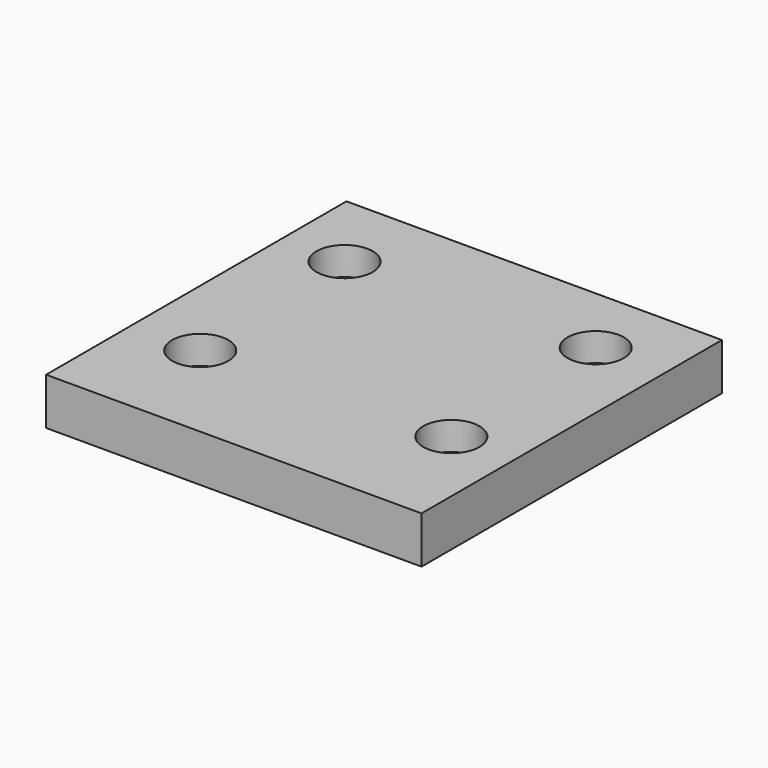
from build123d import *

# Parameters (mm, degrees)
F0_W     = 40
F0_H     = 40
F1_DEPTH = 5
F2_R     = 2
F3_DEPTH = 5
F4_R     = 3
F5_DEPTH = 3


with BuildPart() as f1:
    # F0 (on Top) → F1 (new body)
    with BuildSketch(Plane.XY):
        Rectangle(F0_W, F0_H)
    extrude(amount=F1_DEPTH)

    # F2 (on face) → F3 (cut)
    with BuildSketch(Plane.XY.offset(5)):
        with Locations((-12.70971, -8.583505)):
            Circle(F2_R)
        with Locations((-13.331592, 11.416495)):
            Circle(F2_R)
        with Locations((12.668408, 12.357356)):
            Circle(F2_R)
        with Locations((13.29029, -7.642644)):
            Circle(F2_R)
    extrude(amount=-F3_DEPTH, mode=Mode.SUBTRACT)

    # F4 (on face) → F5 (cut)
    with BuildSketch(Plane.XY.offset(5)):
        with Locations((-12.70971, -8.583505)):
            Circle(F4_R)
        with Locations((-13.331592, 11.416495)):
            Circle(F4_R)
        with Locations((12.668408, 12.357356)):
            Circle(F4_R)
        with Locations((13.29029, -7.642644)):
            Circle(F4_R)
    extrude(amount=-F5_DEPTH, mode=Mode.SUBTRACT)


solid = f1.part
